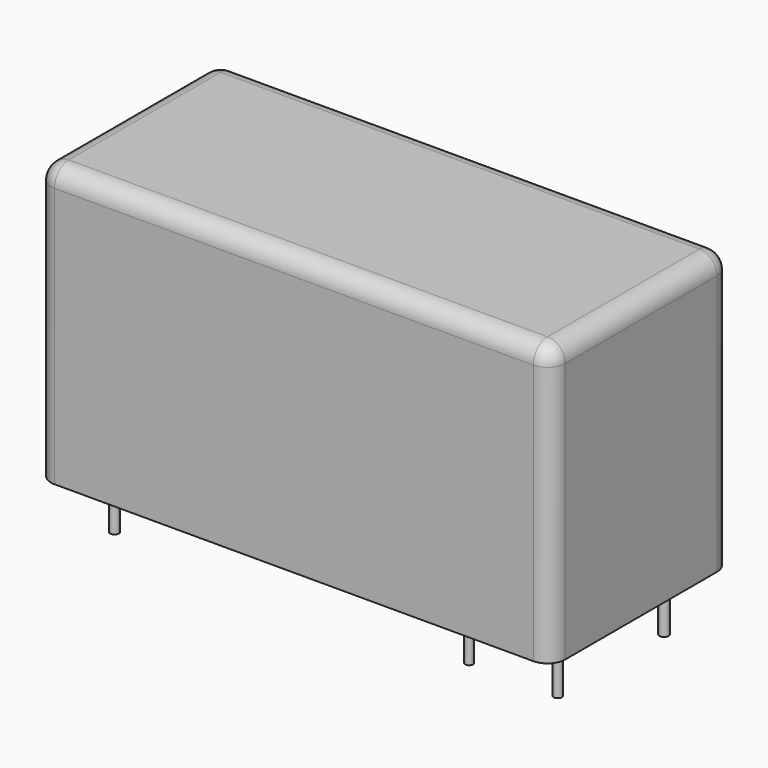
from build123d import *

# Parameters (mm, degrees)
F0_W     = 29
F0_H     = 12.7
F1_DEPTH = 15.7
F2_R     = 0.25
F2_R_2   = 0.178743
F2_R_3   = 0.223428
F2_R_4   = 0.239808
F2_R_5   = 0.251593
F2_R_6   = 0.26056
F3_DEPTH = 3
F4_R     = 1


with BuildPart() as f1:
    # F0 (on Top) → F1 (new body)
    with BuildSketch(Plane.XY):
        Rectangle(F0_W, F0_H)
    extrude(amount=F1_DEPTH)

    # F4
    f4_edges = [f1.edges().sort_by_distance(p)[0] for p in [
        (0, -6.35, 15.7),
        (-14.5, 0, 15.7),
        (0, 6.35, 15.7),
        (14.5, 0, 15.7),
        (14.5, -6.35, 7.85),
        (14.5, 6.35, 7.85),
        (-14.5, -6.35, 7.85),
        (-14.5, 6.35, 7.85),
    ]]
    fillet(f4_edges, radius=F4_R)


with BuildPart() as f3:
    # F2 (on face) → F3 (new body)
    with BuildSketch(Plane(origin=(0, 0, 0), x_dir=(1, 0, 0), z_dir=(0, 0, -1))):
        with Locations((-12.2, 3.75)):
            Circle(F2_R)
        with Locations((-12.2, -3.75)):
            Circle(F2_R_2)
        with Locations((7.8, 3.75)):
            Circle(F2_R_3)
        with Locations((12.8, 3.75)):
            Circle(F2_R_4)
        with Locations((7.8, -3.75)):
            Circle(F2_R_5)
        with Locations((12.8, -3.75)):
            Circle(F2_R_6)
    extrude(amount=F3_DEPTH)


solid = Compound([f1.part, f3.part])
